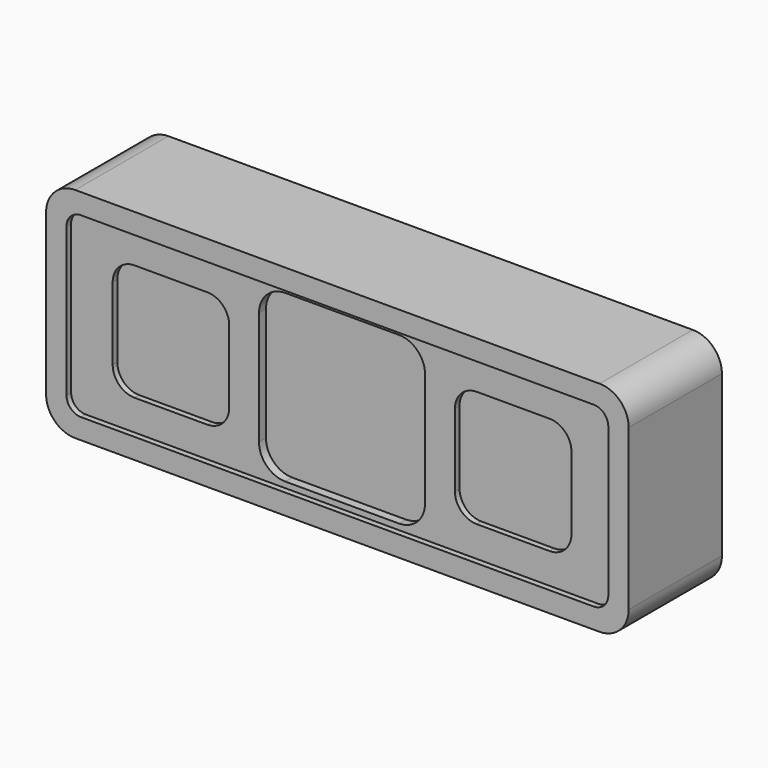
from build123d import *

# Parameters (mm, degrees)
F0_R     = 32.385
F0_R_2   = 20.32
F1_DEPTH = 25.4
F3_DEPTH = 2.54
F5_DEPTH = 3.81
F5_TAPER = -0.25
F7_DEPTH = 2.54
F7_TAPER = -0.25


with BuildPart() as f1:
    # F0 (on Front) → F1 (new body, symmetric)
    with BuildSketch(Plane.XZ):
        with BuildLine():
            Line((114.3, 47.625), (-114.3, 47.625))
            ThreePointArc((-114.3, 47.625), (-123.2802561211, 43.9052561211), (-127, 34.925))
            Line((-127, 34.925), (-127, -34.925))
            ThreePointArc((-127, -34.925), (-123.2802561211, -43.9052561211), (-114.3, -47.625))
            Line((-114.3, -47.625), (114.3, -47.625))
            ThreePointArc((114.3, -47.625), (123.2802561211, -43.9052561211), (127, -34.925))
            Line((127, -34.925), (127, 34.925))
            ThreePointArc((127, 34.925), (123.2802561211, 43.9052561211), (114.3, 47.625))
        make_face()
        Circle(F0_R, mode=Mode.SUBTRACT)
        with Locations((-74.5998, 0)):
            Circle(F0_R_2, mode=Mode.SUBTRACT)
        with Locations((74.5998, 0)):
            Circle(F0_R_2, mode=Mode.SUBTRACT)
        with Locations((74.5998, 0)):
            Circle(F0_R_2)
        Circle(F0_R)
        with Locations((-74.5998, 0)):
            Circle(F0_R_2)
    extrude(amount=F1_DEPTH, both=True)

    # F2 (on face) → F3 (cut)
    with BuildSketch(Plane.XZ.offset(25.4)):
        with BuildLine():
            Line((-111.76, -38.735), (111.76, -38.735))
            ThreePointArc((111.76, -38.735), (116.2501280605, -36.8751280605), (118.11, -32.385))
            Line((118.11, -32.385), (118.11, 32.385))
            ThreePointArc((118.11, 32.385), (116.2501280605, 36.8751280605), (111.76, 38.735))
            Line((111.76, 38.735), (-111.76, 38.735))
            ThreePointArc((-111.76, 38.735), (-116.2501280605, 36.8751280605), (-118.11, 32.385))
            Line((-118.11, 32.385), (-118.11, -32.385))
            ThreePointArc((-118.11, -32.385), (-116.2501280605, -36.8751280605), (-111.76, -38.735))
        make_face()
    extrude(amount=-F3_DEPTH, mode=Mode.SUBTRACT)

    # F4 (on face) → F5 (cut)
    with BuildSketch(Plane.XZ.offset(22.86)):
        with BuildLine():
            Line((24.765, 36.195), (-24.765, 36.195))
            ThreePointArc((-24.765, 36.195), (-32.847230509, 32.847230509), (-36.195, 24.765))
            Line((-36.195, 24.765), (-36.195, -24.765))
            ThreePointArc((-36.195, -24.765), (-32.847230509, -32.847230509), (-24.765, -36.195))
            Line((-24.765, -36.195), (24.765, -36.195))
            ThreePointArc((24.765, -36.195), (32.847230509, -32.847230509), (36.195, -24.765))
            Line((36.195, -24.765), (36.195, 24.765))
            ThreePointArc((36.195, 24.765), (32.847230509, 32.847230509), (24.765, 36.195))
        make_face()
    extrude(amount=-F5_DEPTH, taper=F5_TAPER, mode=Mode.SUBTRACT)

    # F6 (on face) → F7 (cut)
    with BuildSketch(Plane.XZ.offset(22.86)):
        with BuildLine():
            Line((-58.7248, 25.4), (-90.4748, 25.4))
            ThreePointArc((-90.4748, 25.4), (-97.2099920908, 22.6101920908), (-99.9998, 15.875))
            Line((-99.9998, 15.875), (-99.9998, -15.875))
            ThreePointArc((-99.9998, -15.875), (-97.2099920908, -22.6101920908), (-90.4748, -25.4))
            Line((-90.4748, -25.4), (-58.7248, -25.4))
            ThreePointArc((-58.7248, -25.4), (-51.9896079092, -22.6101920908), (-49.1998, -15.875))
            Line((-49.1998, -15.875), (-49.1998, 15.875))
            ThreePointArc((-49.1998, 15.875), (-51.9896079092, 22.6101920908), (-58.7248, 25.4))
        make_face()
        with BuildLine():
            ThreePointArc((99.9998, 15.875), (97.2099920908, 22.6101920908), (90.4748, 25.4))
            Line((90.4748, 25.4), (58.7248, 25.4))
            ThreePointArc((58.7248, 25.4), (51.9896079092, 22.6101920908), (49.1998, 15.875))
            Line((49.1998, 15.875), (49.1998, -15.875))
            ThreePointArc((49.1998, -15.875), (51.9896079092, -22.6101920908), (58.7248, -25.4))
            Line((58.7248, -25.4), (90.4748, -25.4))
            ThreePointArc((90.4748, -25.4), (97.2099920908, -22.6101920908), (99.9998, -15.875))
            Line((99.9998, -15.875), (99.9998, 15.875))
        make_face()
    extrude(amount=-F7_DEPTH, taper=F7_TAPER, mode=Mode.SUBTRACT)


solid = f1.part
